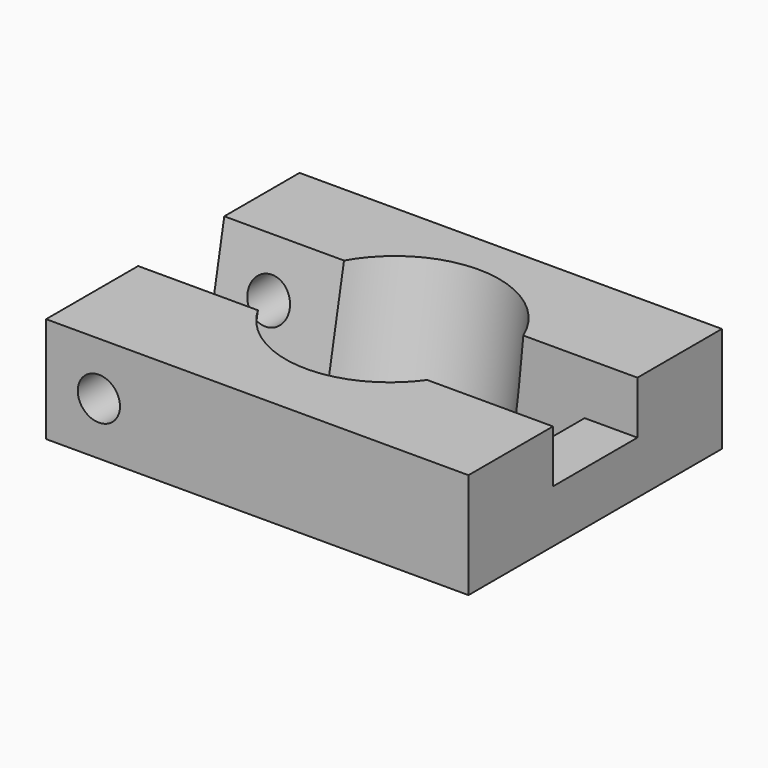
from build123d import *

# Parameters (mm, degrees)
BOX002_W               = 10
BOX002_H               = 10
BOX002_DEPTH           = 5
CYLINDER003_R          = 2
CYLINDER003_DEPTH      = 35
CYLINDER003_ROLL_ANGLE = -90
CYLINDER004_R          = 10
CYLINDER004_DEPTH      = 20
BOX003_W               = 15
BOX003_H               = 10
BOX003_DEPTH           = 20
FUSION001_ROLL_ANGLE   = -11.25
BOX001_W               = 10
BOX001_H               = 10
BOX001_DEPTH           = 10
BOX_W                  = 40
BOX_H                  = 30
BOX_DEPTH              = 10


with BuildPart() as cube002:
    # Box002 → Box002 (new body)
    with BuildSketch(Plane(origin=(10, -5, 0), x_dir=(1, 0, 0), z_dir=(0, 0, 1))):
        with Locations((5, 5)):
            Rectangle(BOX002_W, BOX002_H)
    extrude(amount=BOX002_DEPTH)


with BuildPart() as cylinder003:
    # Cylinder003 → Cylinder003 (new body)
    with BuildSketch(Plane.XY):
        Circle(CYLINDER003_R)
    extrude(amount=CYLINDER003_DEPTH)


with BuildPart() as cylinder003_1:
    # Cylinder003 roll: moved
    add(cylinder003.part.rotate(Axis((0, 0, 0), (1, 0, 0)), CYLINDER003_ROLL_ANGLE))


with BuildPart() as cylinder003_2:
    # Cylinder003 placement: moved
    add(cylinder003_1.part.moved(Location((-15, -15, 0))))


with BuildPart() as rail_cylinder:
    # Cylinder004 → Cylinder004 (new body)
    with BuildSketch(Plane.XY.offset(-10)):
        Circle(CYLINDER004_R)
    extrude(amount=CYLINDER004_DEPTH)


with BuildPart() as fusion001:
    # Box003 → Box003 (new body)
    with BuildSketch(Plane(origin=(-20, -5, -10), x_dir=(1, 0, 0), z_dir=(0, 0, 1))):
        with Locations((7.5, 5)):
            Rectangle(BOX003_W, BOX003_H)
    extrude(amount=BOX003_DEPTH)

    # Fusion001: union Rail Cylinder
    add(rail_cylinder.part)


with BuildPart() as fusion001_1:
    # Fusion001 roll: moved
    add(fusion001.part.rotate(Axis((0, 0, 0), (1, 0, 0)), FUSION001_ROLL_ANGLE))


with BuildPart() as fusion001_2:
    # Fusion001 placement: moved
    add(fusion001_1.part)


with BuildPart() as negative_fusion:
    # Box001 → Box001 (new body)
    with BuildSketch(Plane(origin=(5, -5, -5), x_dir=(1, 0, 0), z_dir=(0, 0, 1))):
        with Locations((5, 5)):
            Rectangle(BOX001_W, BOX001_H)
    extrude(amount=BOX001_DEPTH)

    # Fusion: union Cube002, Cylinder003, Fusion001
    add(cube002.part)
    add(cylinder003_2.part)
    add(fusion001_2.part)


with BuildPart() as cut:
    # Box → Box (new body)
    with BuildSketch(Plane(origin=(-20, -15, -5), x_dir=(1, 0, 0), z_dir=(0, 0, 1))):
        with Locations((20, 15)):
            Rectangle(BOX_W, BOX_H)
    extrude(amount=BOX_DEPTH)

    # Cut: cut Negative Fusion
    add(negative_fusion.part, mode=Mode.SUBTRACT)


solid = cut.part
